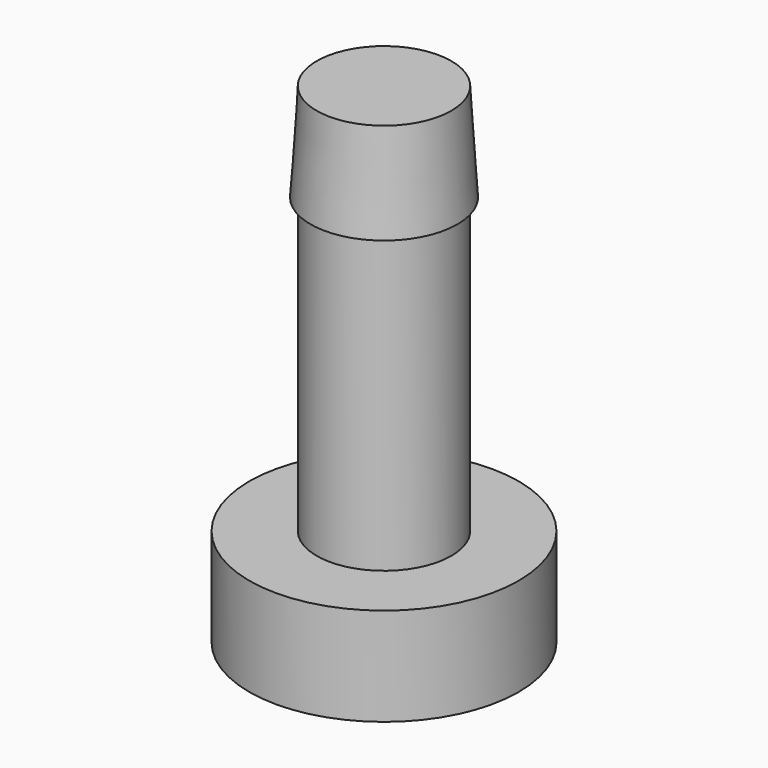
from build123d import *

# Parameters (mm, degrees)
F0_R      = 2.75
F0_R_2    = 1.375
F1_DEPTH  = 2
F2_DEPTH  = 10
F4_R      = 1.5
F2_FACE_R = 1.375


with BuildPart() as f1:
    # F0 (on Top) → F1 (new body)
    with BuildSketch(Plane.XY):
        Circle(F0_R)
        Circle(F0_R_2, mode=Mode.SUBTRACT)
        Circle(F0_R_2)
    extrude(amount=F1_DEPTH)

    # F0 (on Top) → F2 (join)
    with BuildSketch(Plane.XY):
        Circle(F0_R_2)
    extrude(amount=F2_DEPTH)

    # F4 (on offset) → F5 section 0
    with BuildSketch(Plane.XY.offset(8)):
        Circle(F4_R)
    # F2_face (on face) → F5 section 1
    with BuildSketch(Plane.XY.offset(10)):
        Circle(F2_FACE_R)
    loft()


solid = f1.part
